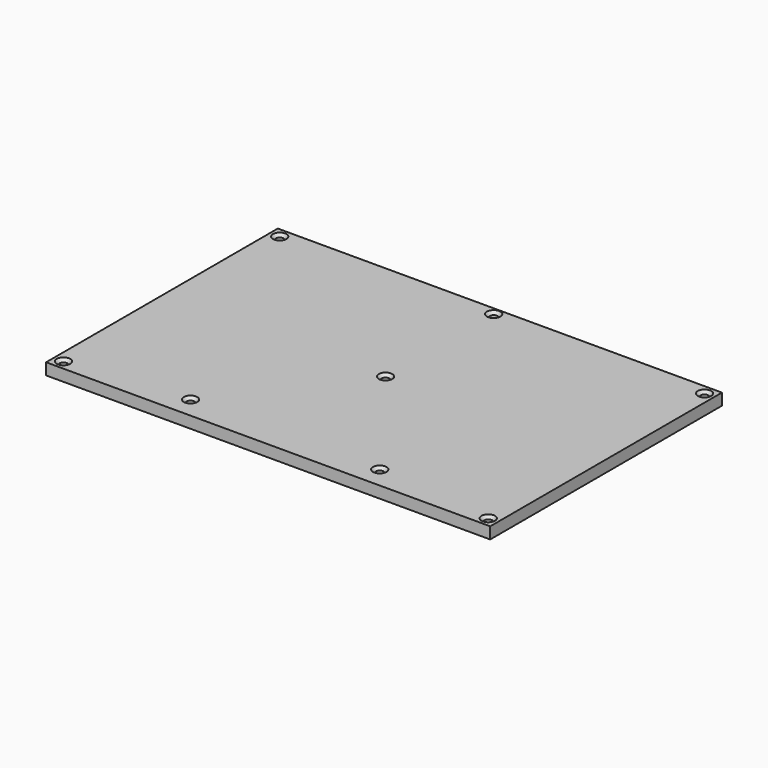
from build123d import *

# Parameters (mm, degrees)
F0_W     = 230
F0_H     = 150
F0_R     = 2
F1_DEPTH = 6
F2_SIZE  = 1.5


with BuildPart() as f1:
    # F0 (on Top) → F1 (new body)
    with BuildSketch(Plane.XY):
        with Locations((115, 75)):
            Rectangle(F0_W, F0_H)
        with Locations((5, 5)):
            Circle(F0_R, mode=Mode.SUBTRACT)
        with Locations((66, 11)):
            Circle(F0_R, mode=Mode.SUBTRACT)
        with Locations((164, 11)):
            Circle(F0_R, mode=Mode.SUBTRACT)
        with Locations((225, 5)):
            Circle(F0_R, mode=Mode.SUBTRACT)
        with Locations((5, 145)):
            Circle(F0_R, mode=Mode.SUBTRACT)
        with Locations((115, 76)):
            Circle(F0_R, mode=Mode.SUBTRACT)
        with Locations((115, 146)):
            Circle(F0_R, mode=Mode.SUBTRACT)
        with Locations((225, 145)):
            Circle(F0_R, mode=Mode.SUBTRACT)
    extrude(amount=F1_DEPTH)

    # F2
    f2_edges = [f1.edges().sort_by_distance(p)[0] for p in [
        (3, 145, 6),
        (3, 5, 6),
        (64, 11, 6),
        (113, 76, 6),
        (113, 146, 6),
        (162, 11, 6),
        (223, 5, 6),
        (223, 145, 6),
    ]]
    chamfer(f2_edges, length=F2_SIZE)


solid = f1.part
